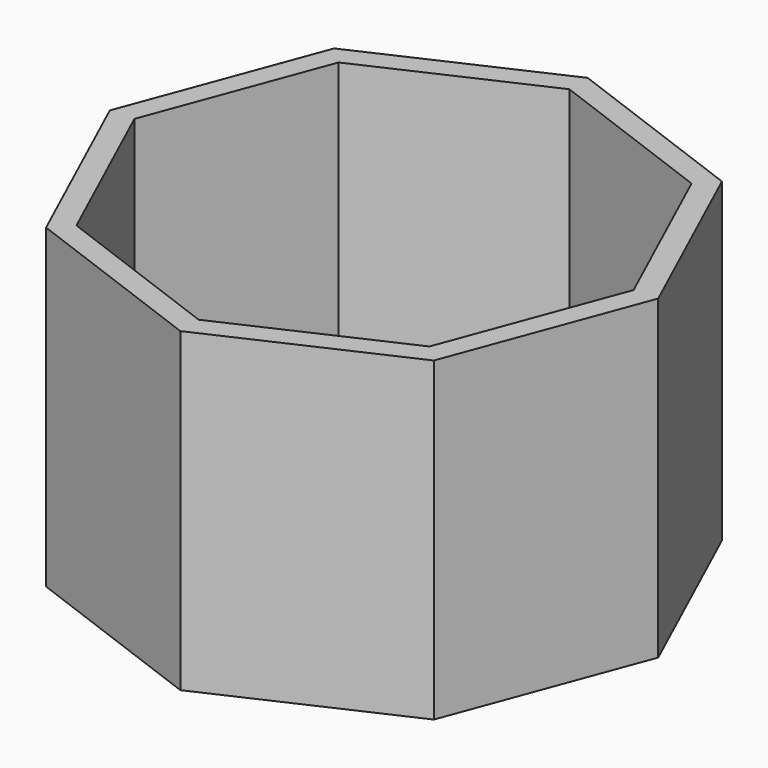
from build123d import *

# Parameters (mm, degrees)
F1_DEPTH = 10.85673
F2_DEPTH = 25.4
F3_T     = -2.54


with BuildPart() as f1:
    # F0 (on Top) → F1 (new body)
    with BuildSketch(Plane.XY):
        Polygon((-8.2639252249, -17.919666025), (-17.9962570365, 3.3771906822), (-39.9372066528, 11.5545446571), (-61.23406336, 1.8222128455), (-69.4114173349, -20.1187367708), (-59.6790855233, -41.415593478), (-37.738135907, -49.5929474529), (-16.4412791998, -39.8606156413), align=None)
    extrude(amount=F1_DEPTH)

    # F2 (add): a face of the model
    f2_faces = [f1.faces().sort_by_distance(p)[0] for p in [
        (-38.8376712799, -19.0192013979, 10.85673),
    ]]
    extrude(f2_faces, amount=F2_DEPTH)

    # F3
    f3_openings = [f1.faces().sort_by_distance(p)[0] for p in [
        (-38.837671, -19.019201, 36.25673),
    ]]
    offset(amount=F3_T, openings=f3_openings)


solid = f1.part
